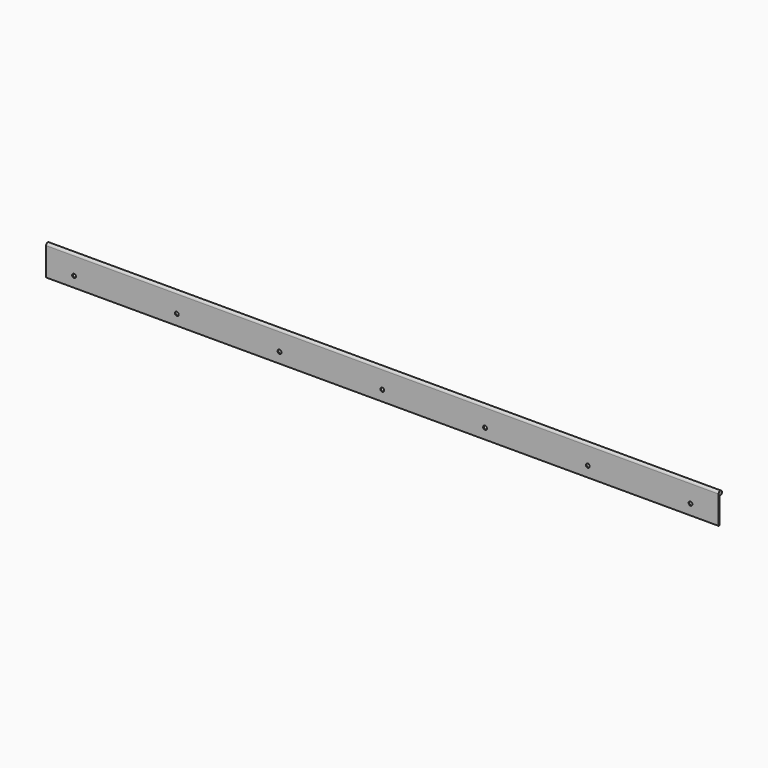
from build123d import *

# Parameters (mm, degrees)
F1_DEPTH = 914.4
F3_D     = 5.2197


with BuildPart() as f1:
    # F0 (on Right) → F1 (new body)
    with BuildSketch(Plane.YZ):
        with BuildLine():
            Line((0, 38.1), (0, 0))
            Line((0, 0), (1.27, 0))
            Line((1.27, 0), (1.27, 35.7240475594))
            ThreePointArc((1.27, 35.7240475594), (5.3775781238, 39.4470384182), (0, 38.1))
        make_face()
    extrude(amount=F1_DEPTH)

    # F3 (through all)
    with Locations(Plane.XZ):
        with Locations((38.1, 14.2875), (177.8, 14.2875), (317.5, 14.2875), (596.9, 14.2875), (736.6, 14.2875), (876.3, 14.2875), (457.2, 14.2875)):
            Hole(F3_D / 2)


solid = f1.part
